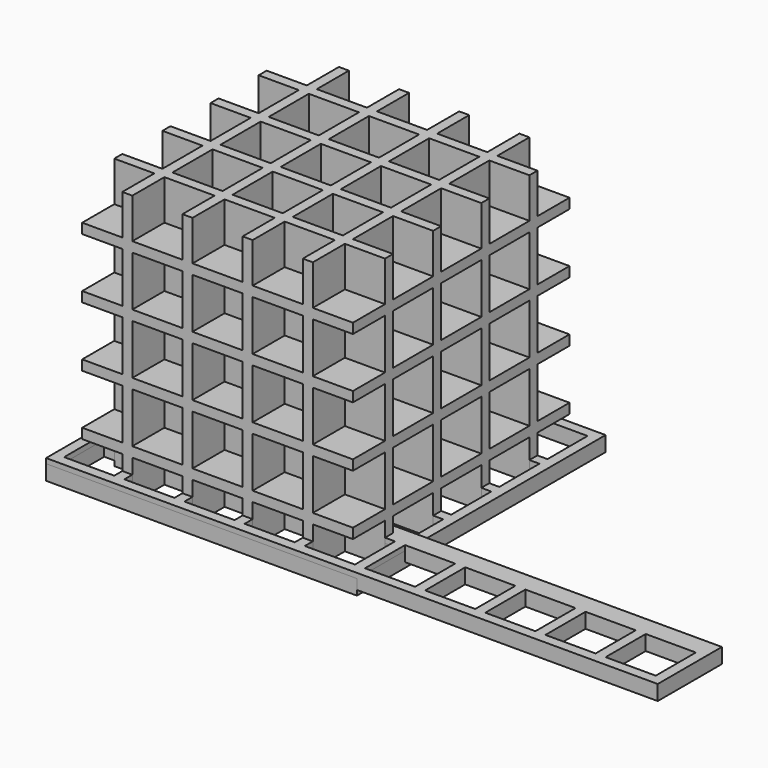
from build123d import *

# Parameters (mm, degrees)
BOX_W            = 10
BOX_H            = 10
BOX_DEPTH        = 10
ARRAY_X_COUNT    = 10
ARRAY_X_PITCH    = 12
BOX001_W         = 122
BOX001_H         = 16
BOX001_DEPTH     = 3
ARRAY001_X_COUNT = 5
ARRAY001_X_PITCH = 12
ARRAY001_Y_COUNT = 5
ARRAY001_Y_PITCH = 12
BOX002_W         = 62
BOX002_H         = 62
BOX002_DEPTH     = 3
ARRAY002_X_COUNT = 5
ARRAY002_X_PITCH = 12
ARRAY002_Y_COUNT = 5
ARRAY002_Y_PITCH = 12
ARRAY002_Z_COUNT = 5
ARRAY002_Z_PITCH = 12
BOX003_W         = 54
BOX003_H         = 54
BOX003_DEPTH     = 54


with BuildPart() as master_box:
    # Box → Box (new body)
    with BuildSketch(Plane.XY):
        with Locations((5, 5)):
            Rectangle(BOX_W, BOX_H)
    extrude(amount=BOX_DEPTH)


with BuildPart() as array:
    # Array base: copy of master_box
    add(master_box.part)

    # Array X: Array ×10


with BuildPart() as array_1:
    add(array.part)
    with Locations(*[(i * ARRAY_X_PITCH, 0, 0) for i in range(1, ARRAY_X_COUNT)]):
        add(array.part)


with BuildPart() as cut:
    # Box001 → Box001 (new body)
    with BuildSketch(Plane(origin=(-2, -2, 4), x_dir=(1, 0, 0), z_dir=(0, 0, 1))):
        with Locations((61, 8)):
            Rectangle(BOX001_W, BOX001_H)
    extrude(amount=BOX001_DEPTH)

    # Cut: cut Array
    add(array_1.part, mode=Mode.SUBTRACT)


with BuildPart() as array001:
    # Array001 base: copy of master_box
    add(master_box.part)

    # Array001 X: Array001 ×5


with BuildPart() as array001_1:
    add(array001.part)
    with Locations(*[(i * ARRAY001_X_PITCH, 0, 0) for i in range(1, ARRAY001_X_COUNT)]):
        add(array001.part)

    # Array001 Y: Array001 ×5


with BuildPart() as array001_2:
    add(array001_1.part)
    with Locations(*[(0, i * ARRAY001_Y_PITCH, 0) for i in range(1, ARRAY001_Y_COUNT)]):
        add(array001_1.part)


with BuildPart() as cut001:
    # Box002 → Box002 (new body)
    with BuildSketch(Plane(origin=(-2, -2, 3), x_dir=(1, 0, 0), z_dir=(0, 0, 1))):
        with Locations((31, 31)):
            Rectangle(BOX002_W, BOX002_H)
    extrude(amount=BOX002_DEPTH)

    # Cut001: cut Array001
    add(array001_2.part, mode=Mode.SUBTRACT)


with BuildPart() as array002:
    # Array002 base: copy of master_box
    add(master_box.part)

    # Array002 X: Array002 ×5


with BuildPart() as array002_1:
    add(array002.part)
    with Locations(*[(i * ARRAY002_X_PITCH, 0, 0) for i in range(1, ARRAY002_X_COUNT)]):
        add(array002.part)

    # Array002 Y: Array002 ×5


with BuildPart() as array002_2:
    add(array002_1.part)
    with Locations(*[(0, i * ARRAY002_Y_PITCH, 0) for i in range(1, ARRAY002_Y_COUNT)]):
        add(array002_1.part)

    # Array002 Z: Array002 ×5


with BuildPart() as array002_3:
    add(array002_2.part)
    with Locations(*[(0, 0, i * ARRAY002_Z_PITCH) for i in range(1, ARRAY002_Z_COUNT)]):
        add(array002_2.part)


with BuildPart() as cut002:
    # Box003 → Box003 (new body)
    with BuildSketch(Plane(origin=(2, 2, 2), x_dir=(1, 0, 0), z_dir=(0, 0, 1))):
        with Locations((27, 27)):
            Rectangle(BOX003_W, BOX003_H)
    extrude(amount=BOX003_DEPTH)

    # Cut002: cut Array002
    add(array002_3.part, mode=Mode.SUBTRACT)


solid = Compound([cut.part, cut001.part, cut002.part])
